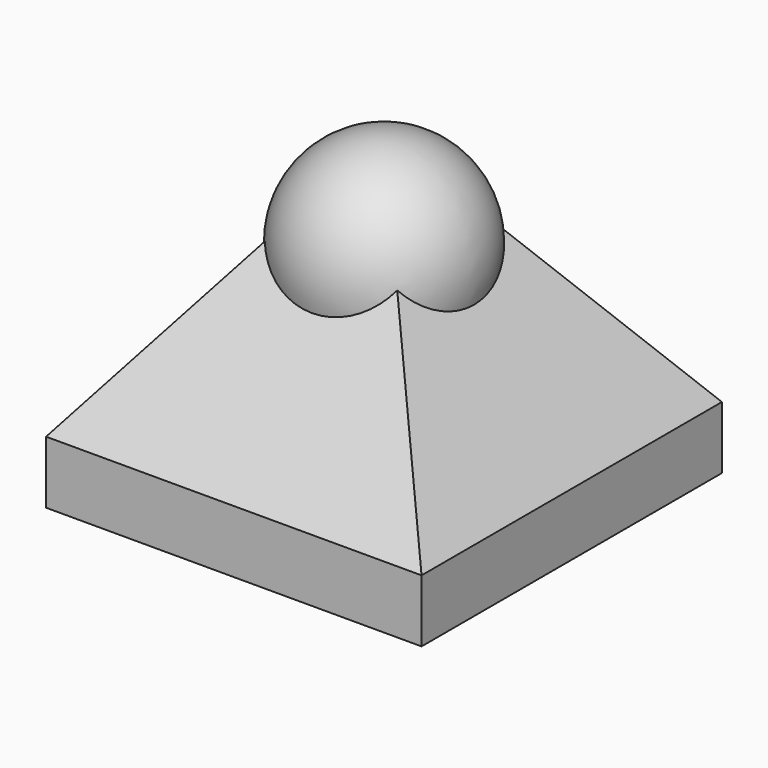
from build123d import *

# Parameters (mm, degrees)
F1_DEPTH = 25
F4_DEPTH = 30.001
F5_DEPTH = 30.001


with BuildPart() as f1:
    # F0 (on Top) → F1 (new body)
    with BuildSketch(Plane.XY):
        Polygon((0, 0), (-15, 15), (-15, -15), align=None)
        Polygon((15, 15), (-15, 15), (0, 0), align=None)
        Polygon((15, -15), (15, 15), (0, 0), align=None)
        Polygon((0, 0), (-15, -15), (15, -15), align=None)
    extrude(amount=F1_DEPTH)

    # F3 (on face) → F4 (cut, through all)
    with BuildSketch(Plane.XZ.offset(15)):
        Polygon((-15, 25), (-15, 5), (0, 25), align=None)
        Polygon((0, 25), (15, 5), (15, 25), align=None)
    extrude(amount=-F4_DEPTH, mode=Mode.SUBTRACT)

    # F2 (on face) → F5 (cut, through all)
    with BuildSketch(Plane.YZ.offset(15)):
        Polygon((-15, 25), (-15, 5), (0, 25), align=None)
        Polygon((0, 25), (15, 5), (15, 25), align=None)
    extrude(amount=-F5_DEPTH, mode=Mode.SUBTRACT)

    # F6 (on Front) → F7 (revolve)
    with BuildSketch(Plane.XZ):
        with BuildLine():
            ThreePointArc((0, 10), (5.3033008589, 12.1966991411), (7.5, 17.5))
            ThreePointArc((7.5, 17.5), (5.3033008589, 22.8033008589), (0, 25))
            Line((0, 25), (0, 10))
        make_face()
    revolve(axis=Axis((0, 0, 17.5), (0, 0, 1)))


solid = f1.part
